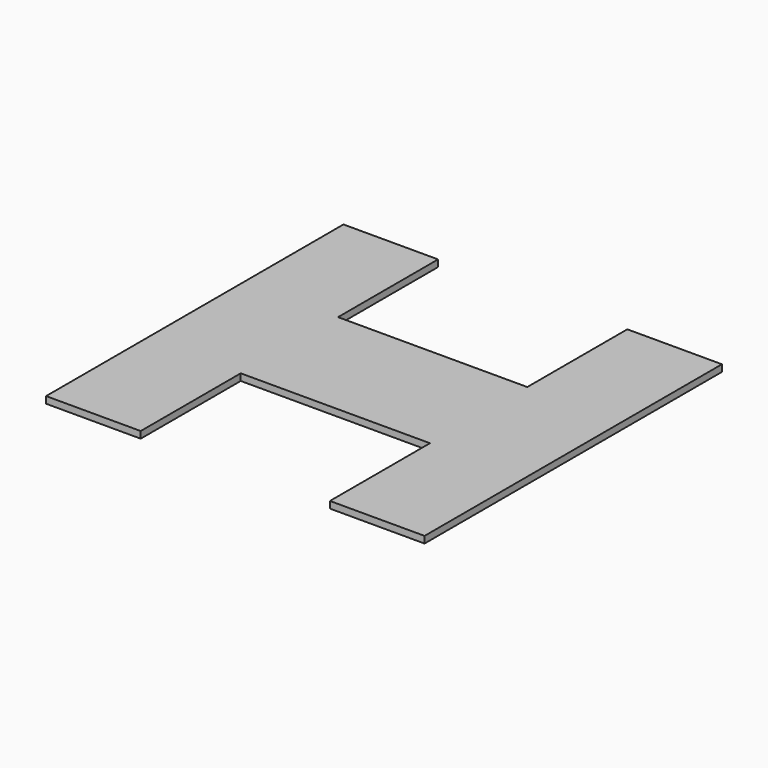
from build123d import *

# Parameters (mm, degrees)
PAD_DEPTH = 2.5


with BuildPart() as part:
    # Sketch → Pad (new body, symmetric)
    with BuildSketch(Plane.XY):
        Polygon((-140, 137.5), (-70, 137.5), (-70, 45), (70, 45), (70, 137.5), (140, 137.5), (140, -137.5), (70, -137.5), (70, -45), (-70, -45), (-70, -137.5), (-140, -137.5), align=None)
    extrude(amount=PAD_DEPTH, both=True)


solid = part.part
